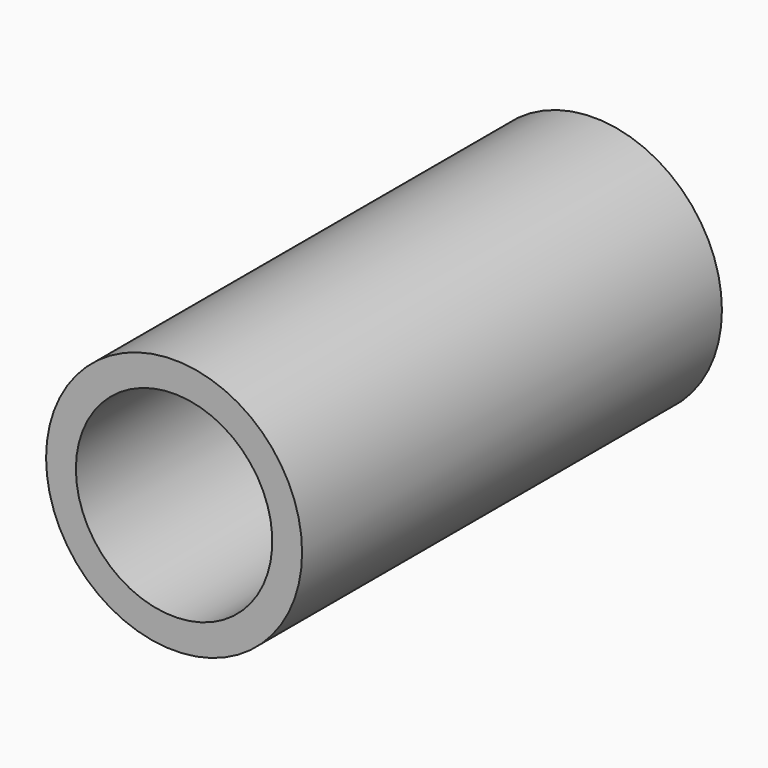
from build123d import *

# Parameters (mm, degrees)
F0_R     = 41.383836
F1_DEPTH = 84.836
F3_D     = 63.5


with BuildPart() as f1:
    # F0 (on Front) → F1 (new body, symmetric)
    with BuildSketch(Plane.XZ):
        Circle(F0_R)
    extrude(amount=F1_DEPTH, both=True)

    # F3 (through all)
    with Locations(Plane.XZ.offset(84.836)):
        with Locations((0, 0)):
            Hole(F3_D / 2)


solid = f1.part
